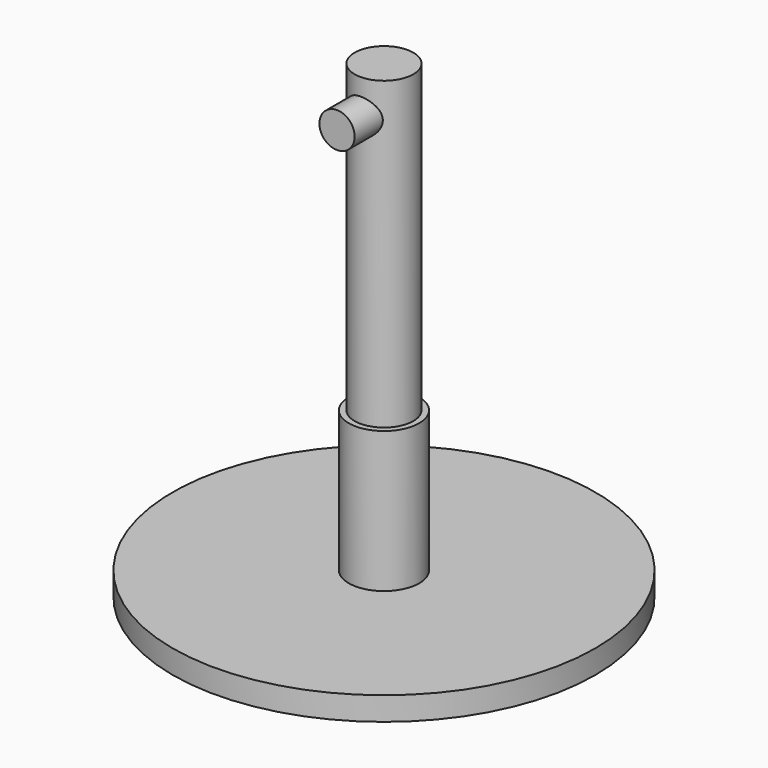
from build123d import *

# Parameters (mm, degrees)
F0_R     = 90
F1_DEPTH = 10
F2_R     = 15
F3_DEPTH = 70
F4_T     = -2.5
F5_R     = 12.5
F6_DEPTH = 200
F7_R     = 7.5
F8_DEPTH = 25


with BuildPart() as f1:
    # F0 (on Top) → F1 (new body)
    with BuildSketch(Plane.XY):
        Circle(F0_R)
    extrude(amount=F1_DEPTH)

    # F2 (on Top) → F3 (join)
    with BuildSketch(Plane.XY):
        Circle(F2_R)
    extrude(amount=F3_DEPTH)

    # F4
    f4_openings = [f1.faces().sort_by_distance(p)[0] for p in [
        (0, 0, 70),
    ]]
    offset(amount=F4_T, openings=f4_openings, kind=Kind.INTERSECTION)

    # F5 (on Top) → F6 (join)
    with BuildSketch(Plane.XY):
        Circle(F5_R)
    extrude(amount=F6_DEPTH)


with BuildPart() as f8:
    # F7 (on Front) → F8 (new body)
    with BuildSketch(Plane.XZ):
        with Locations((0, 185.1844340563)):
            Circle(F7_R)
    extrude(amount=F8_DEPTH)


solid = Compound([f1.part, f8.part])
